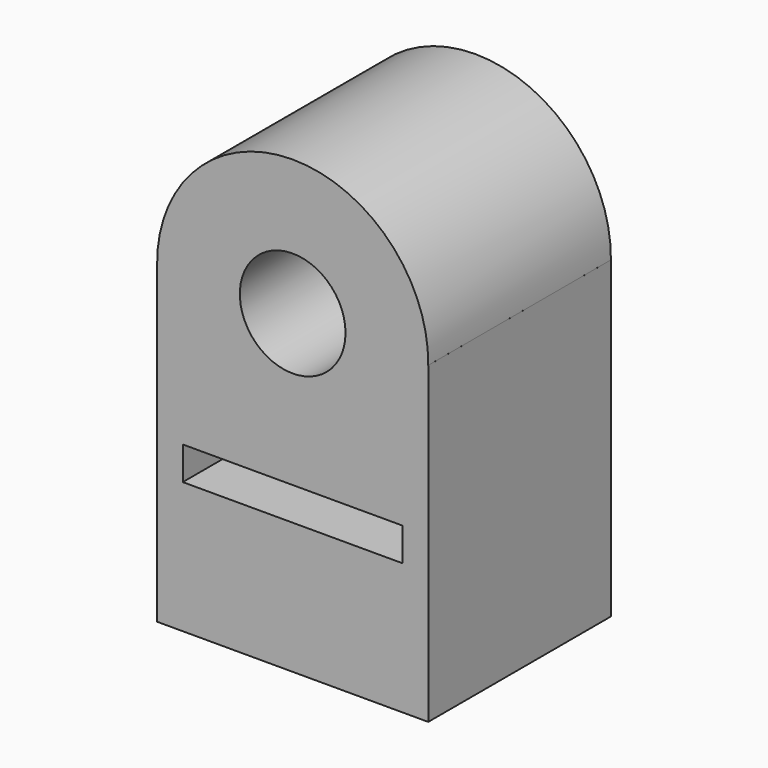
from build123d import *

# Parameters (mm, degrees)
F0_R     = 23.98376
F1_DEPTH = 103.632
F2_W     = 99.758
F2_H     = 15.050918
F3_DEPTH = 103.632


with BuildPart() as f1:
    # F0 (on Front) → F1 (new body)
    with BuildSketch(Plane.XZ):
        with BuildLine():
            Line((-61.540183, 75.381599), (-61.540183, -67.121178))
            Line((-61.540183, -67.121178), (61.540183, -67.121178))
            Line((61.540183, -67.121178), (61.540183, 75.381599))
            Line((61.540183, 75.381599), (61.536183, 75.381599))
            ThreePointArc((61.536183, 75.381599), (0, 137.623388), (-61.536183, 75.381599))
            Line((-61.536183, 75.381599), (-61.540183, 75.381599))
        make_face()
        with Locations((0, 76.083206)):
            Circle(F0_R, mode=Mode.SUBTRACT)
    extrude(amount=-F1_DEPTH)

    # F2 (on Front) → F3 (cut, through all)
    with BuildSketch(Plane.XZ):
        Rectangle(F2_W, F2_H)
    extrude(amount=-F3_DEPTH, mode=Mode.SUBTRACT)


solid = f1.part
